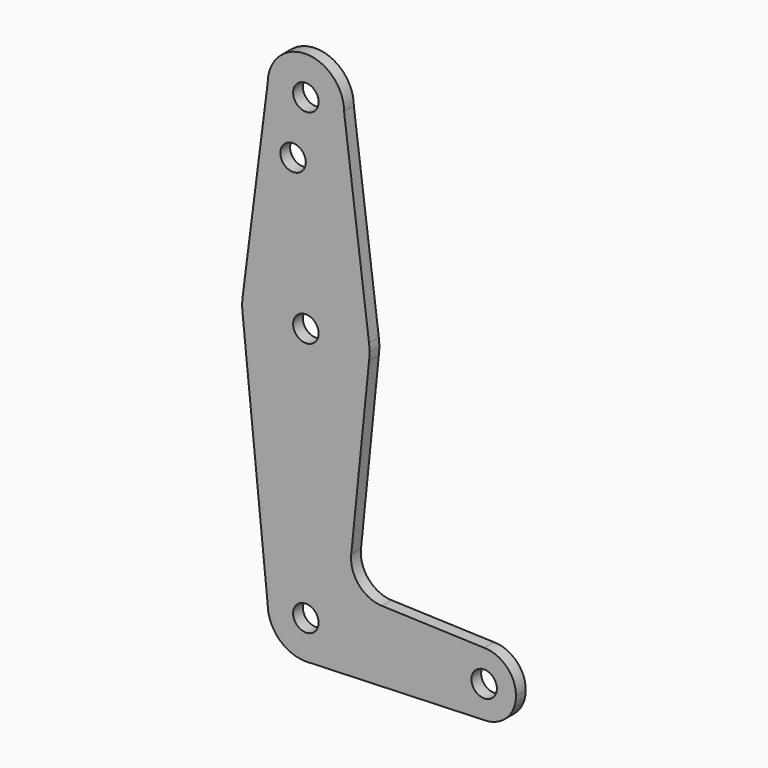
from build123d import *

# Parameters (mm, degrees)
F0_R     = 3.175
F1_DEPTH = 3.048


with BuildPart() as f1:
    # F0 (on Front) → F1 (new body)
    with BuildSketch(Plane.XZ):
        with BuildLine():
            ThreePointArc((-9.525, 114.3), (0, 104.775), (9.525, 114.3))
            ThreePointArc((9.525, 114.3), (0, 123.825), (-9.525, 114.3))
        make_face()
        with Locations((0, 114.3)):
            Circle(F0_R, mode=Mode.SUBTRACT)
        with BuildLine():
            Line((15.747457, 65.508289), (9.525, 114.3))
            ThreePointArc((9.525, 114.3), (0, 104.775), (-9.525, 114.3))
            Line((-9.525, 114.3), (-15.747457, 65.508289))
            ThreePointArc((-15.747457, 65.508289), (0, 79.375), (15.747457, 65.508289))
        make_face()
        with Locations((-3.192032, 100.0252)):
            Circle(F0_R, mode=Mode.SUBTRACT)
        with BuildLine():
            ThreePointArc((15.875, 63.5), (15.843082, 64.506168), (15.747457, 65.508289))
            ThreePointArc((15.747457, 65.508289), (0, 79.375), (-15.747457, 65.508289))
            ThreePointArc((-15.747457, 65.508289), (-15.875, 63.5), (-15.747457, 61.491711))
            ThreePointArc((-15.747457, 61.491711), (0, 47.625), (15.747457, 61.491711))
            ThreePointArc((15.747457, 61.491711), (15.843082, 62.493832), (15.875, 63.5))
        make_face()
        with Locations((0, 63.5)):
            Circle(F0_R, mode=Mode.SUBTRACT)
        with BuildLine():
            ThreePointArc((15.747457, 61.491711), (0, 47.625), (-15.747457, 61.491711))
            Line((-15.747457, 61.491711), (-9.525, 0))
            ThreePointArc((-9.525, 0), (0, 9.525), (9.525, 0))
            ThreePointArc((9.525, 0), (6.97129, -6.490511), (0.67949, -9.500732))
            Line((0.67949, -9.500732), (44.45, -7.9375))
            ThreePointArc((44.45, -7.9375), (36.5125, 0), (44.45, 7.9375))
            Line((44.45, 7.9375), (18.931462, 8.848876))
            ThreePointArc((18.931462, 8.848876), (13.223161, 11.56898), (11.305411, 17.594418))
            Line((11.305411, 17.594418), (15.747457, 61.491711))
        make_face()
        with BuildLine():
            ThreePointArc((9.525, 0), (0, 9.525), (-9.525, 0))
            ThreePointArc((-9.525, 0), (-6.735192, -6.735192), (0, -9.525))
            Line((0, -9.525), (0.67949, -9.500732))
            ThreePointArc((0.67949, -9.500732), (6.97129, -6.490511), (9.525, 0))
        make_face()
        Circle(F0_R, mode=Mode.SUBTRACT)
        with BuildLine():
            Line((0.67949, -9.500732), (0, -9.525))
            ThreePointArc((0, -9.525), (0.339962, -9.518931), (0.67949, -9.500732))
        make_face()
        with BuildLine():
            ThreePointArc((52.3875, 0), (50.06266, 5.61266), (44.45, 7.9375))
            ThreePointArc((44.45, 7.9375), (36.5125, 0), (44.45, -7.9375))
            ThreePointArc((44.45, -7.9375), (50.06266, -5.61266), (52.3875, 0))
        make_face()
        with Locations((44.45, 0)):
            Circle(F0_R, mode=Mode.SUBTRACT)
        with BuildLine():
            Line((15.747457, 65.508289), (9.525, 114.3))
            ThreePointArc((9.525, 114.3), (0, 104.775), (-9.525, 114.3))
            Line((-9.525, 114.3), (-15.747457, 65.508289))
            ThreePointArc((-15.747457, 65.508289), (0, 79.375), (15.747457, 65.508289))
        make_face()
        with Locations((-3.192032, 100.0252)):
            Circle(F0_R, mode=Mode.SUBTRACT)
    extrude(amount=F1_DEPTH)


solid = f1.part
